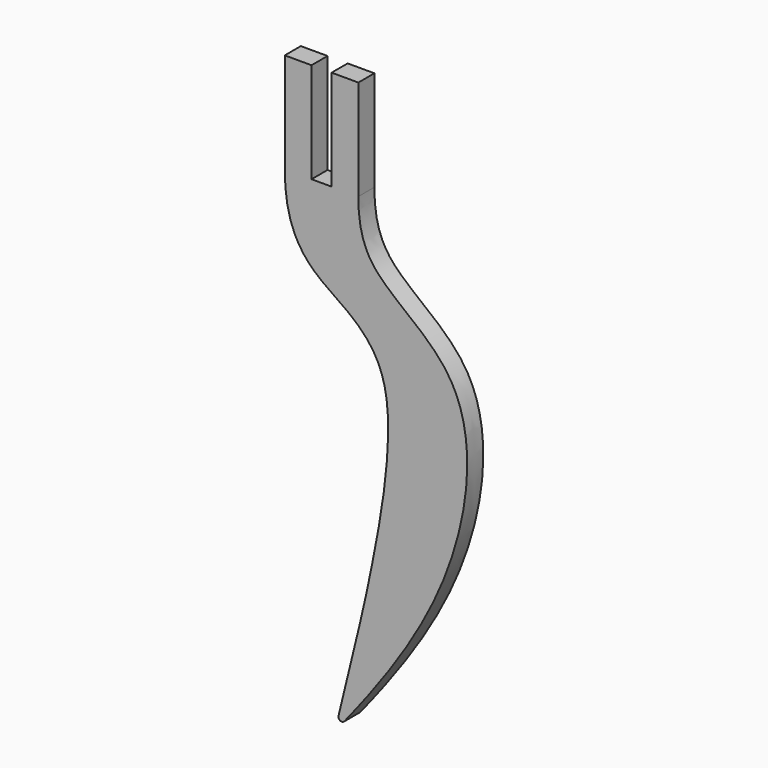
from build123d import *

# Parameters (mm, degrees)
F0_W     = 4
F0_H     = 15
F1_DEPTH = 3
F2_R     = 0.5


with BuildPart() as f1:
    # F0 (on Front) → F1 (new body)
    with BuildSketch(Plane.XZ):
        with Locations((-9, 7.5)):
            Rectangle(F0_W, F0_H)
        with BuildLine():
            add(Edge.make_bspline(
                [(0, 0), (0, -2), (0.3118573184, -9.9786341961), (19.0287578525, -18.2269819864), (15.032005126, -49.0601420072), (0, -67.0831354716), (-3.5, -71.5)],
                knots=[0, 0, 0, 0, 0.1632050001, 0.3973335384, 0.6984522797, 1, 1, 1, 1], degree=3))
            Line((0, 0), (-4, 0))
            Line((-4, 0), (-7, 0))
            Line((-7, 0), (-11, 0))
            add(Edge.make_bspline(
                [(-11, 0), (-11, -10), (-2.5456818177, -14.1496144068), (6.7499129169, -23.144037682), (1.3109915507, -52.2184440443), (0, -57.0831354716), (-3.5, -71.5)],
                knots=[0, 0, 0, 0, 0.2399821467, 0.4324939201, 0.7160944044, 1, 1, 1, 1], degree=3))
        make_face()
        with Locations((-2, 7.5)):
            Rectangle(F0_W, F0_H)
    extrude(amount=F1_DEPTH)

    # F2
    f2_edges = [f1.edges().sort_by_distance(p)[0] for p in [
        (-3.5, -1.5, -71.5),
    ]]
    fillet(f2_edges, radius=F2_R)


solid = f1.part
